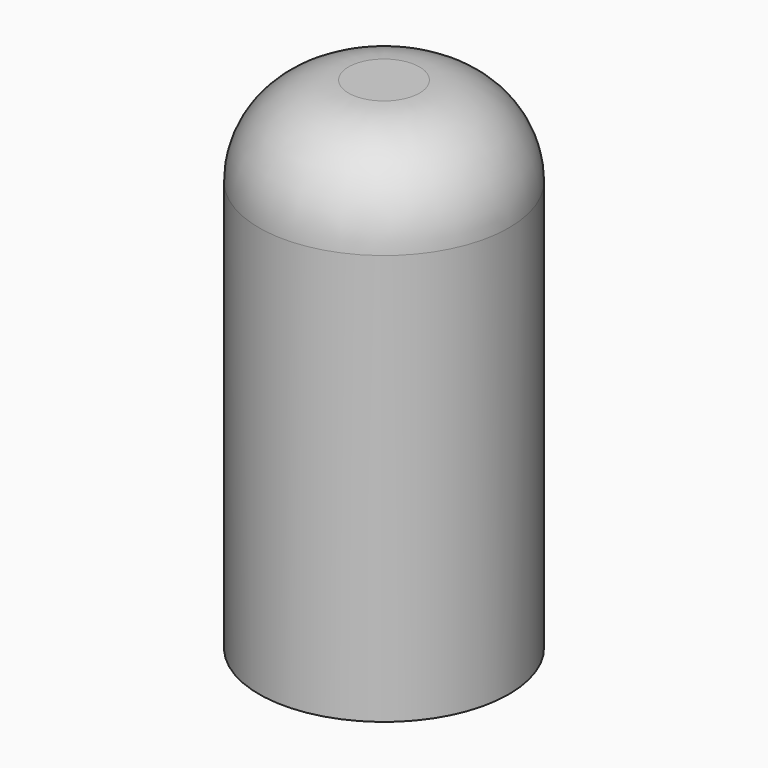
from build123d import *

# Parameters (mm, degrees)
F0_R     = 34.9158107131
F1_DEPTH = 152.4
F2_R     = 25
F3_R     = 25.7826386029
F4_DEPTH = 137.16
F5_DEPTH = 12.7
F6_SCALE = 0.9


with BuildPart() as f1:
    # F0 (on Top) → F1 (new body)
    with BuildSketch(Plane.XY):
        Circle(F0_R)
    extrude(amount=F1_DEPTH)

    # F2
    f2_edges = [f1.edges().sort_by_distance(p)[0] for p in [
        (-34.915811, 0, 152.4),
    ]]
    fillet(f2_edges, radius=F2_R)

    # F3 (on face) → F4 (cut)
    with BuildSketch(Plane(origin=(0, 0, 0), x_dir=(1, 0, 0), z_dir=(0, 0, -1))):
        Circle(F3_R)
    extrude(amount=-F4_DEPTH, mode=Mode.SUBTRACT)

    # F5 (cut): a face of the model
    f5_faces = [f1.faces().sort_by_distance(p)[0] for p in [
        (-33.9282424521, 0, 0),
    ]]
    extrude(f5_faces, amount=-F5_DEPTH, mode=Mode.SUBTRACT)


with BuildPart() as f1_1:
    # F6: moved
    add(f1.part.scale(F6_SCALE))


solid = f1_1.part
